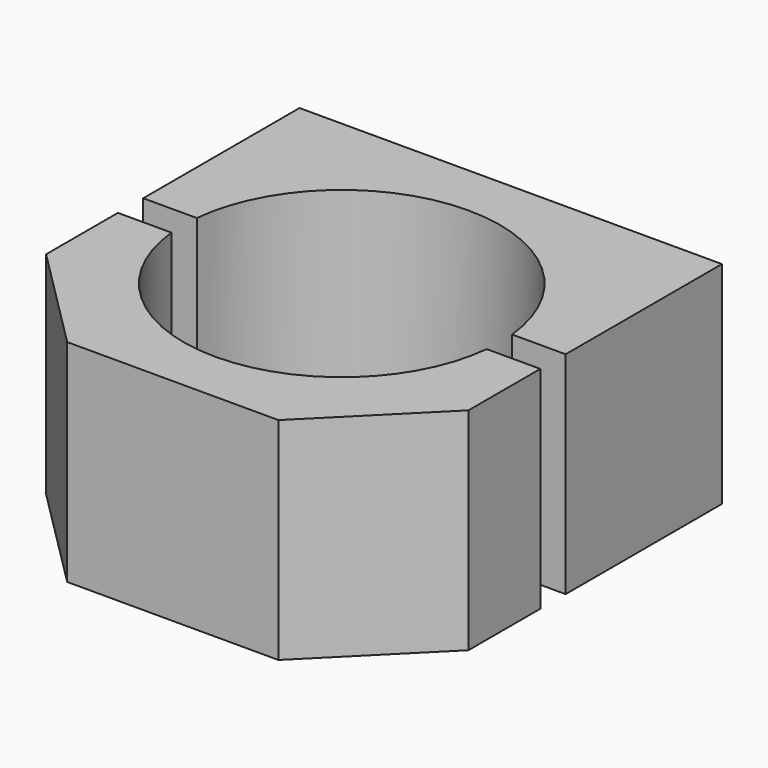
from build123d import *

# Parameters (mm, degrees)
F0_W     = 40
F0_H     = 40
F1_DEPTH = 20
F3_D     = 30
F4_W     = 40
F4_H     = 3
F5_DEPTH = 25
F6_SIZE  = 10


with BuildPart() as f1:
    # F0 (on Top) → F1 (new body)
    with BuildSketch(Plane.XY):
        Rectangle(F0_W, F0_H)
    extrude(amount=F1_DEPTH)

    # F3 (through all)
    with Locations(Plane.XY.offset(20)):
        with Locations((0, 0)):
            Hole(F3_D / 2)

    # F4 (on face) → F5 (cut)
    with BuildSketch(Plane.XY.offset(20)):
        Rectangle(F4_W, F4_H)
        Rectangle(F4_W, F4_H)
    extrude(amount=-F5_DEPTH, mode=Mode.SUBTRACT)

    # F6
    f6_edges = [f1.edges().sort_by_distance(p)[0] for p in [
        (-20, -20, 10),
        (20, -20, 10),
    ]]
    chamfer(f6_edges, length=F6_SIZE)


solid = f1.part
